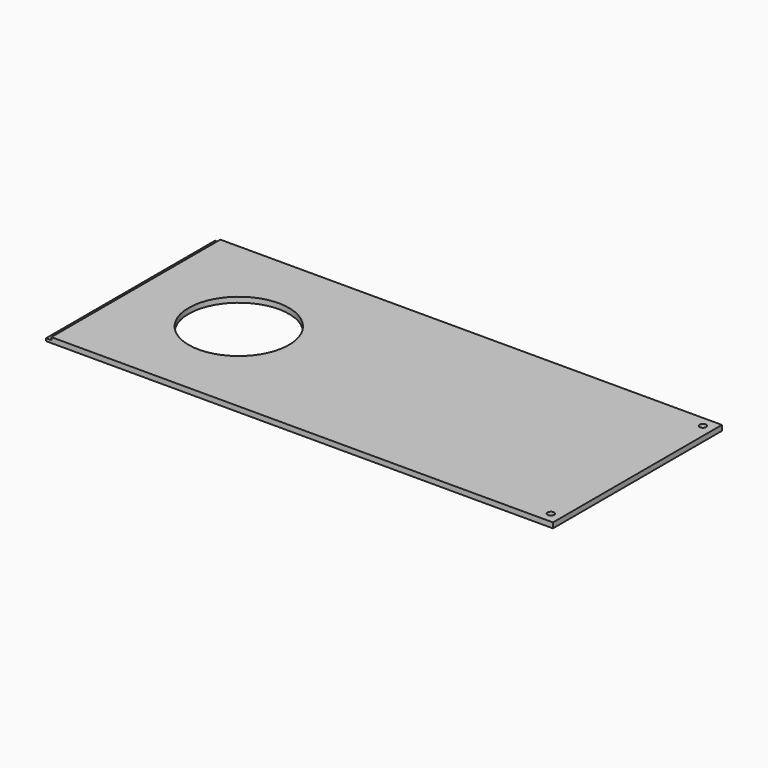
from build123d import *

# Parameters (mm, degrees)
F0_W     = 192
F0_H     = 80
F1_DEPTH = 2
F2_W     = 2
F2_H     = 80
F3_DEPTH = 1
F5_D     = 2.5
F7_D     = 38


with BuildPart() as f1:
    # F0 (on Top) → F1 (new body)
    with BuildSketch(Plane.XY):
        Rectangle(F0_W, F0_H)
    extrude(amount=F1_DEPTH)

    # F2 (on face) → F3 (cut)
    with BuildSketch(Plane.XY.offset(2)):
        with Locations((-95, 0)):
            Rectangle(F2_W, F2_H)
    extrude(amount=-F3_DEPTH, mode=Mode.SUBTRACT)

    # F5 (through all)
    with Locations(Plane.XY.offset(2)):
        with Locations((92, 36), (92, -36)):
            Hole(F5_D / 2)

    # F7 (through all)
    with Locations(Plane.XY.offset(2)):
        with Locations((-55, 0)):
            Hole(F7_D / 2)


solid = f1.part
